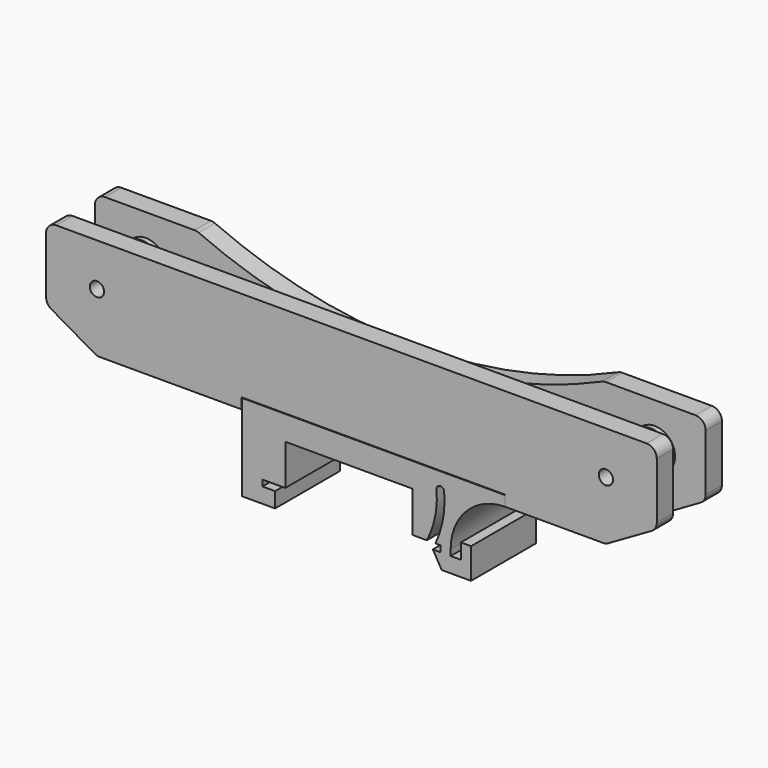
from build123d import *

# Parameters (mm, degrees)
PAD001_DEPTH     = 4
SKETCH004_R      = 4
PAD002_DEPTH     = 1
FILLET_R         = 2
PAD_DEPTH        = 8
SKETCH007_R      = 3
PAD005_DEPTH     = 6
HOLE_D           = 3.4
HOLE_DEPTH       = 25
HOLE_CBORE_D     = 6.3
HOLE_CBORE_DEPTH = 3.4
SKETCH012_W      = 2
SKETCH012_H      = 2
PAD007_DEPTH     = 8
POCKET_DEPTH     = 16.001
FILLET001_R      = 2
SKETCH014_R      = 1.7
PAD008_DEPTH     = 0.3
PAD003_DEPTH     = 4
SKETCH006_R      = 4
PAD004_DEPTH     = 1
SKETCH010_R      = 1.4
HOLE001_DEPTH    = 5.001


with BuildPart() as base:
    # Sketch (on DatumPlane) → Pad001 (new body)
    with BuildSketch(Plane.XZ.offset(-8)):
        Polygon((-21.5, 0), (-21.5, 2), (30.3, 2), (30.3, 0), (50, 0), (60, 5.773503), (60, 20), (-60, 20), (-60, 5.773503), (-50, 0), align=None)
    extrude(amount=PAD001_DEPTH)

    # Sketch004 (on Face12 of Pad001) → Pad002 (join)
    with BuildSketch(Plane.XZ.offset(-4)):
        with Locations((-50, 11.547005)):
            Circle(SKETCH004_R)
        with Locations((50, 11.547005)):
            Circle(SKETCH004_R)
    extrude(amount=PAD002_DEPTH)

    # Fillet
    fillet_edges = [base.edges().sort_by_distance(p)[0] for p in [
        (-50, 6, 0),
        (-60, 6, 5.773503),
        (-60, 6, 20),
        (60, 6, 20),
        (60, 6, 5.773503),
        (50, 6, 0),
    ]]
    fillet(fillet_edges, radius=FILLET_R)


with BuildPart() as clip_and_base:
    # Sketch003 → Pad (new body, symmetric)
    with BuildSketch(Plane.XZ):
        with BuildLine():
            Line((-21.5, 0), (-21.5, -15))
            Line((-21.5, -15), (-15, -15))
            Line((-15, -15), (-15, -12))
            Line((-15, -12), (-17.5, -12))
            Line((-17.5, -12), (-17.5, -10.8))
            Line((-17.5, -10.8), (-13, -10.8))
            Line((-13, -10.8), (-13, -2.8))
            Line((-13, -2.8), (12, -2.8))
            Line((12, -2.8), (12, -10.8))
            Line((12, -10.8), (14.825962, -10.8))
            ThreePointArc((14.825962, -10.8), (16.447393, -6.216284), (16.728416, -1.362367))
            ThreePointArc((18.223221, -1.237633), (17.413451, -0.552598), (16.728416, -1.362367))
            ThreePointArc((16.5, -10.8), (17.990453, -6.132139), (18.223221, -1.237633))
            Line((17.5, -10.8), (16.5, -10.8))
            Line((17.5, -12), (17.5, -10.8))
            Line((16, -12), (17.5, -12))
            Line((17.732051, -15), (16, -12))
            Line((23.5, -15), (17.732051, -15))
            Line((23.5, -9), (23.5, -15))
            Line((21.5, -9), (23.5, -9))
            Line((21.5, -12), (21.5, -9))
            Line((19.5, -12), (21.5, -12))
            Line((19.5, -12), (19.5, -10.8))
            ThreePointArc((30.3, 0), (22.663246, -3.163247), (19.5, -10.8))
            Line((30.3, 2), (30.3, 0))
            Line((-21.5, 2), (30.3, 2))
            Line((-21.5, 0), (-21.5, 2))
        make_face()
    extrude(amount=PAD_DEPTH, both=True)

    # Boolean: union base
    add(base.part)

    # Sketch007 (on Face44 of Boolean) → Pad005 (join)
    with BuildSketch(Plane.XZ.offset(-3)):
        with Locations((-50, 11.547005)):
            Circle(SKETCH007_R)
        with Locations((50, 11.547005)):
            Circle(SKETCH007_R)
    extrude(amount=PAD005_DEPTH)

    # Hole
    with Locations(Plane(origin=(0, 8, 0), x_dir=(-1, 0, 0), z_dir=(0, 1, 0))):
        with Locations((-50, 11.547005), (50, 11.547005)):
            CounterBoreHole(HOLE_D / 2, HOLE_CBORE_D / 2, HOLE_CBORE_DEPTH, depth=HOLE_DEPTH)

    # Sketch012 (on Face7 of Hole) → Pad007 (join)
    with BuildSketch(Plane.XZ.offset(-4)):
        with Locations((-22.5, 1)):
            Rectangle(SKETCH012_W, SKETCH012_H)
        with Locations((31.3, 1)):
            Rectangle(SKETCH012_W, SKETCH012_H)
    extrude(amount=PAD007_DEPTH)

    # Sketch013 (on Face4 of Pad007) → Pocket (cut, through all)
    with BuildSketch(Plane(origin=(0, 8, 0), x_dir=(-1, 0, 0), z_dir=(0, 1, 0))):
        with BuildLine():
            ThreePointArc((-40, 20), (0, 11.470431), (40, 20))
            Line((-40, 20), (40, 20))
        make_face()
    extrude(amount=-POCKET_DEPTH, mode=Mode.SUBTRACT)

    # Fillet001
    fillet001_edges = [clip_and_base.edges().sort_by_distance(p)[0] for p in [
        (40, 6, 20),
        (-40, 6, 20),
    ]]
    fillet(fillet001_edges, radius=FILLET001_R)

    # Sketch014 (on Face53 of Fillet001) → Pad008 (join)
    with BuildSketch(Plane(origin=(0, 4.6, 0), x_dir=(-1, 0, 0), z_dir=(0, 1, 0))):
        with Locations((-50, 11.547005)):
            Circle(SKETCH014_R)
        with Locations((50, 11.547005)):
            Circle(SKETCH014_R)
    extrude(amount=-PAD008_DEPTH)


with BuildPart() as retainer:
    # Sketch005 (on ShapeBinder) → Pad003 (new body)
    with BuildSketch(Plane.XZ.offset(8)):
        with BuildLine():
            Line((-49.464102, 0), (-21.6, 0))
            Line((-21.6, 2.1), (-21.6, 0))
            Line((30.2, 2.1), (-21.6, 2.1))
            Line((30.2, 0), (30.2, 2.1))
            Line((30.2, 0), (49.464102, 0))
            ThreePointArc((49.464102, 0), (49.98174, 0.068148), (50.464102, 0.267949))
            Line((50.464102, 0.267949), (59, 5.196152))
            ThreePointArc((59, 5.196152), (59.732051, 5.928203), (60, 6.928203))
            Line((60, 6.928203), (60, 18))
            ThreePointArc((60, 18), (59.414214, 19.414214), (58, 20))
            Line((-58, 20), (58, 20))
            ThreePointArc((-58, 20), (-59.414214, 19.414214), (-60, 18))
            Line((-60, 6.928203), (-60, 18))
            ThreePointArc((-60, 6.928203), (-59.732051, 5.928203), (-59, 5.196152))
            Line((-50.464102, 0.267949), (-59, 5.196152))
            ThreePointArc((-50.464102, 0.267949), (-49.98174, 0.068148), (-49.464102, 0))
        make_face()
    extrude(amount=-PAD003_DEPTH)

    # Sketch006 (on Face18 of Pad003) → Pad004 (join)
    with BuildSketch(Plane(origin=(0, -4, 0), x_dir=(-1, 0, 0), z_dir=(0, 1, 0))):
        with Locations((-50, 11.547005)):
            Circle(SKETCH006_R)
        with Locations((50, 11.547005)):
            Circle(SKETCH006_R)
    extrude(amount=PAD004_DEPTH)

    # Sketch010 (on Face4 of Pad004) → Hole001 (cut, through all)
    with BuildSketch(Plane.XZ.offset(8)):
        with Locations((-50, 11.547005)):
            Circle(SKETCH010_R)
        with Locations((50, 11.547005)):
            Circle(SKETCH010_R)
    extrude(amount=-HOLE001_DEPTH, mode=Mode.SUBTRACT)


solid = Compound([clip_and_base.part, retainer.part])
